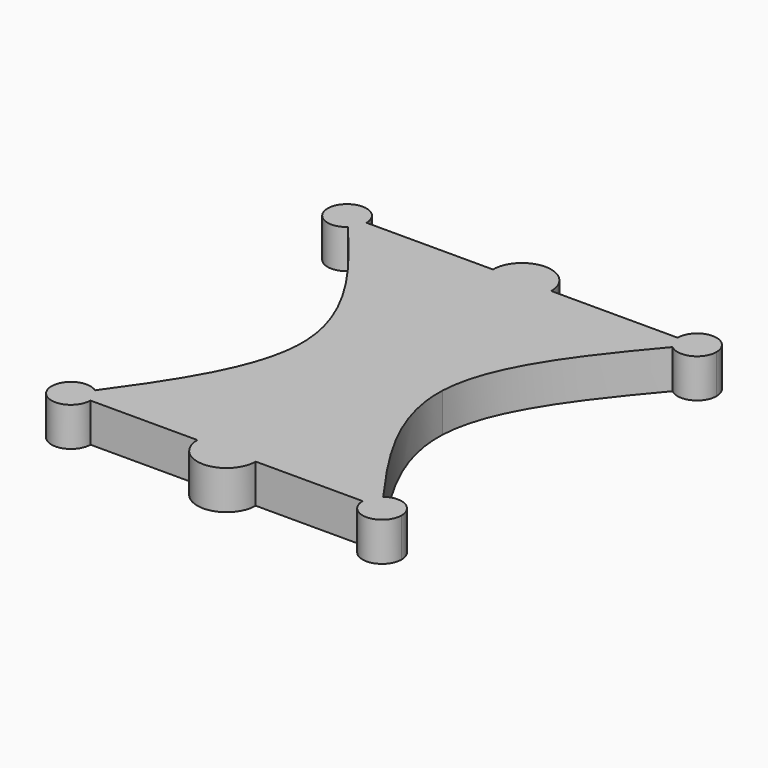
from build123d import *

# Parameters (mm, degrees)
F1_DEPTH = 2


with BuildPart() as f1:
    # F0 (on Top) → F1 (new body)
    with BuildSketch(Plane.XY):
        with BuildLine():
            add(Edge.make_bspline(
                [(-8.3521283749, -0.7617495372), (-8.5671938563, -0.5078146578), (-8.7835969282, -0.2539073289), (-9, 0)],
                knots=[0.9592497634, 0.9592497634, 0.9592497634, 0.9592497634, 1, 1, 1, 1], degree=3))
            Line((-9, 0), (-8, 0))
            ThreePointArc((-8, 0), (-9.9077091013, 0.4196000327), (-8.3521283749, -0.7617495372))
        make_face()
        with BuildLine():
            Line((-8, 0), (-9, 0))
            add(Edge.make_bspline(
                [(-8.3521283749, -0.7617495372), (-8.5671938563, -0.5078146578), (-8.7835969282, -0.2539073289), (-9, 0)],
                knots=[0.9592497634, 0.9592497634, 0.9592497634, 0.9592497634, 1, 1, 1, 1], degree=3))
            ThreePointArc((-8.3521283749, -0.7617495372), (-8.0922908987, -0.4196000327), (-8, 0))
        make_face()
        with BuildLine():
            Line((-1.5, 0), (-8, 0))
            ThreePointArc((-8, 0), (-8.0922908987, -0.4196000327), (-8.3521283749, -0.7617495372))
            add(Edge.make_bspline(
                [(-3.5, -9.5), (-3.6213752497, -6.556436521), (-5.8997934607, -3.6573019366), (-8.3521283749, -0.7617495372)],
                knots=[0.4945855722, 0.4945855722, 0.4945855722, 0.4945855722, 0.9592497634, 0.9592497634, 0.9592497634, 0.9592497634], degree=3))
            Line((-3.5, -9.5), (0, -9.5))
            Line((0, -9.5), (0, -1.5))
            ThreePointArc((0, -1.5), (-1.0606601718, -1.0606601718), (-1.5, 0))
        make_face()
        with BuildLine():
            Line((0, 0), (-1.5, 0))
            ThreePointArc((-1.5, 0), (-1.0606601718, -1.0606601718), (0, -1.5))
            Line((0, -1.5), (0, 0))
        make_face()
        with BuildLine():
            ThreePointArc((1.5, 0), (0, 1.5), (-1.5, 0))
            Line((-1.5, 0), (0, 0))
            Line((0, 0), (1.5, 0))
        make_face()
        with BuildLine():
            Line((1.5, 0), (0, 0))
            Line((0, 0), (0, -1.5))
            ThreePointArc((0, -1.5), (1.0606601718, -1.0606601718), (1.5, 0))
        make_face()
        with BuildLine():
            Line((8, 0), (1.5, 0))
            ThreePointArc((1.5, 0), (1.0606601718, -1.0606601718), (0, -1.5))
            Line((0, -1.5), (0, -9.5))
            Line((0, -9.5), (3.5, -9.5))
            add(Edge.make_bspline(
                [(3.5, -9.5), (3.6213752497, -6.556436521), (5.8997934607, -3.6573019366), (8.3521283749, -0.7617495372)],
                knots=[0.4945855722, 0.4945855722, 0.4945855722, 0.4945855722, 0.9592497634, 0.9592497634, 0.9592497634, 0.9592497634], degree=3))
            ThreePointArc((8.3521283749, -0.7617495372), (8.0922908987, -0.4196000327), (8, 0))
        make_face()
        with BuildLine():
            Line((9, 0), (8, 0))
            ThreePointArc((8, 0), (8.0922908987, -0.4196000327), (8.3521283749, -0.7617495372))
            add(Edge.make_bspline(
                [(8.3521283749, -0.7617495372), (8.5671938563, -0.5078146578), (8.7835969282, -0.2539073289), (9, 0)],
                knots=[0.9592497634, 0.9592497634, 0.9592497634, 0.9592497634, 1, 1, 1, 1], degree=3))
        make_face()
        with BuildLine():
            ThreePointArc((10, 0), (9, 1), (8, 0))
            Line((8, 0), (9, 0))
            add(Edge.make_bspline(
                [(8.3521283749, -0.7617495372), (8.5671938563, -0.5078146578), (8.7835969282, -0.2539073289), (9, 0)],
                knots=[0.9592497634, 0.9592497634, 0.9592497634, 0.9592497634, 1, 1, 1, 1], degree=3))
            ThreePointArc((8.3521283749, -0.7617495372), (9.4196000327, -0.9077091013), (10, 0))
        make_face()
        with BuildLine():
            Line((0, -9.5), (-3.5, -9.5))
            add(Edge.make_bspline(
                [(-7.4128937144, -18.1904901425), (-5.3105671576, -15.277222995), (-3.3817599302, -12.3675298477), (-3.5, -9.5)],
                knots=[0.0419238759, 0.0419238759, 0.0419238759, 0.0419238759, 0.4945855722, 0.4945855722, 0.4945855722, 0.4945855722], degree=3))
            ThreePointArc((-7.4128937144, -18.1904901425), (-7.1091840017, -18.5456357659), (-7, -19))
            Line((-7, -19), (-1.5, -19))
            ThreePointArc((-1.5, -19), (-1.0606601718, -17.9393398282), (0, -17.5))
            Line((0, -17.5), (0, -9.5))
        make_face()
        with BuildLine():
            Line((3.5, -9.5), (0, -9.5))
            Line((0, -9.5), (0, -17.5))
            ThreePointArc((0, -17.5), (1.0606601718, -17.9393398282), (1.5, -19))
            Line((1.5, -19), (7, -19))
            ThreePointArc((7, -19), (7.1091840017, -18.5456357659), (7.4128937144, -18.1904901425))
            add(Edge.make_bspline(
                [(7.4128937144, -18.1904901425), (5.3105671576, -15.277222995), (3.3817599302, -12.3675298477), (3.5, -9.5)],
                knots=[0.0419238759, 0.0419238759, 0.0419238759, 0.0419238759, 0.4945855722, 0.4945855722, 0.4945855722, 0.4945855722], degree=3))
        make_face()
        with BuildLine():
            Line((0, -19), (0, -17.5))
            ThreePointArc((0, -17.5), (-1.0606601718, -17.9393398282), (-1.5, -19))
            Line((-1.5, -19), (0, -19))
        make_face()
        with BuildLine():
            ThreePointArc((1.5, -19), (1.0606601718, -17.9393398282), (0, -17.5))
            Line((0, -17.5), (0, -19))
            Line((0, -19), (1.5, -19))
        make_face()
        with BuildLine():
            Line((1.5, -19), (0, -19))
            Line((0, -19), (-1.5, -19))
            ThreePointArc((-1.5, -19), (0, -20.5), (1.5, -19))
        make_face()
        with BuildLine():
            add(Edge.make_bspline(
                [(-8, -19), (-7.8038017674, -18.7301531618), (-7.6076035348, -18.4603063237), (-7.4128937144, -18.1904901425)],
                knots=[0, 0, 0, 0, 0.0419238759, 0.0419238759, 0.0419238759, 0.0419238759], degree=3))
            ThreePointArc((-7.4128937144, -18.1904901425), (-8.8908159983, -19.4543642341), (-7, -19))
            Line((-7, -19), (-8, -19))
        make_face()
        with BuildLine():
            ThreePointArc((-7, -19), (-7.1091840017, -18.5456357659), (-7.4128937144, -18.1904901425))
            add(Edge.make_bspline(
                [(-8, -19), (-7.8038017674, -18.7301531618), (-7.6076035348, -18.4603063237), (-7.4128937144, -18.1904901425)],
                knots=[0, 0, 0, 0, 0.0419238759, 0.0419238759, 0.0419238759, 0.0419238759], degree=3))
            Line((-8, -19), (-7, -19))
        make_face()
        with BuildLine():
            add(Edge.make_bspline(
                [(8, -19), (7.8038017674, -18.7301531618), (7.6076035348, -18.4603063237), (7.4128937144, -18.1904901425)],
                knots=[0, 0, 0, 0, 0.0419238759, 0.0419238759, 0.0419238759, 0.0419238759], degree=3))
            ThreePointArc((7.4128937144, -18.1904901425), (7.1091840017, -18.5456357659), (7, -19))
            Line((7, -19), (8, -19))
        make_face()
        with BuildLine():
            ThreePointArc((9, -19), (8.4543642341, -18.1091840017), (7.4128937144, -18.1904901425))
            add(Edge.make_bspline(
                [(8, -19), (7.8038017674, -18.7301531618), (7.6076035348, -18.4603063237), (7.4128937144, -18.1904901425)],
                knots=[0, 0, 0, 0, 0.0419238759, 0.0419238759, 0.0419238759, 0.0419238759], degree=3))
            Line((8, -19), (7, -19))
            ThreePointArc((7, -19), (8, -20), (9, -19))
        make_face()
    extrude(amount=F1_DEPTH)


solid = f1.part
